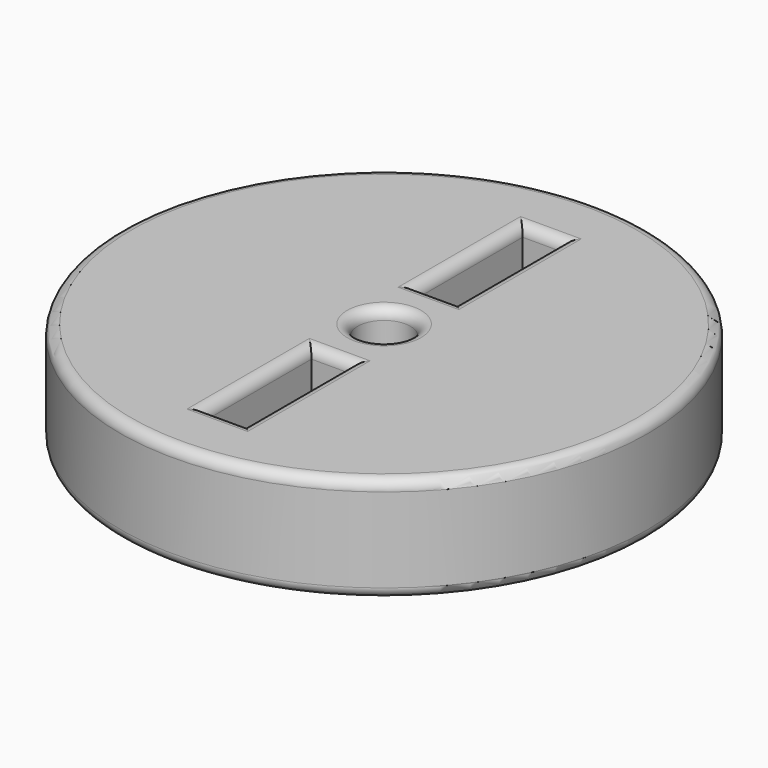
from build123d import *

# Parameters (mm, degrees)
F0_W     = 127
F0_H     = 50.8
F2_W     = 19.05
F2_H     = 63.5
F3_DEPTH = 50.801
F4_R     = 12.7
F5_DEPTH = 50.801
F6_R     = 5.08


with BuildPart() as f1:
    # F0 (on Front) → F1 (revolve)
    with BuildSketch(Plane.XZ):
        with Locations((63.5, 25.4)):
            Rectangle(F0_W, F0_H)
    revolve(axis=Axis((0, 0, 25.4), (0, 0, 1)))

    # F2 (on face) → F3 (cut, through all)
    with BuildSketch(Plane.XY.offset(50.8)):
        with Locations((0, 63.5)):
            Rectangle(F2_W, F2_H)
        with Locations((0, -63.5)):
            Rectangle(F2_W, F2_H)
    extrude(amount=-F3_DEPTH, mode=Mode.SUBTRACT)

    # F4 (on face) → F5 (cut, through all)
    with BuildSketch(Plane.XY.offset(50.8)):
        Circle(F4_R)
    extrude(amount=-F5_DEPTH, mode=Mode.SUBTRACT)

    # F6
    f6_edges = [f1.edges().sort_by_distance(p)[0] for p in [
        (-127, 0, 50.8),
        (9.525, -63.5, 50.8),
        (0, -95.25, 50.8),
        (-9.525, -63.5, 50.8),
        (0, -31.75, 50.8),
        (-12.7, 0, 50.8),
        (0, 95.25, 50.8),
        (9.525, 63.5, 50.8),
        (-9.525, 63.5, 50.8),
        (0, 31.75, 50.8),
        (-127, 0, 0),
        (9.525, -63.5, 0),
        (0, -95.25, 0),
        (-9.525, -63.5, 0),
        (0, -31.75, 0),
        (-12.7, 0, 0),
        (0, 31.75, 0),
        (9.525, 63.5, 0),
        (-9.525, 63.5, 0),
        (0, 95.25, 0),
    ]]
    fillet(f6_edges, radius=F6_R)


solid = f1.part
